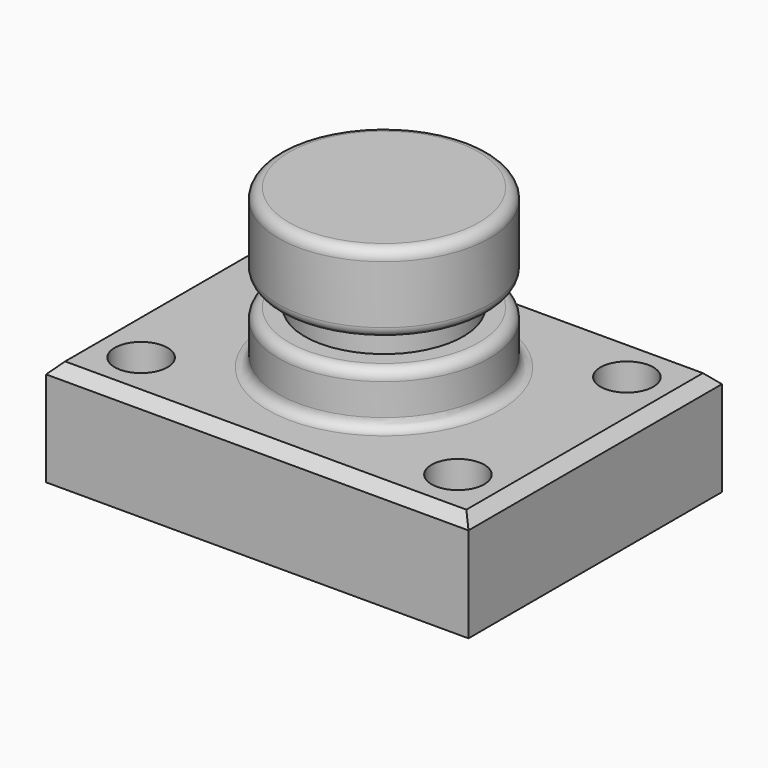
from build123d import *

# Parameters (mm, degrees)
F0_W     = 101.6
F0_H     = 76.2
F1_DEPTH = 25.4
F2_R     = 6.35
F3_DEPTH = 25.4
F4_W     = 25.4
F4_H     = 38.1
F6_W     = 25.4
F6_H     = 6.35
F8_SIZE  = 2.54
F9_R     = 2.54


with BuildPart() as f1:
    # F0 (on Top) → F1 (new body)
    with BuildSketch(Plane.XY):
        Rectangle(F0_W, F0_H)
    extrude(amount=F1_DEPTH)

    # F2 (on face) → F3 (cut)
    with BuildSketch(Plane.XY.offset(25.4)):
        with Locations((-38.1, 25.4)):
            Circle(F2_R)
        with Locations((38.1, 25.4)):
            Circle(F2_R)
        with Locations((38.1, -25.4)):
            Circle(F2_R)
        with Locations((-38.1, -25.4)):
            Circle(F2_R)
    extrude(amount=-F3_DEPTH, mode=Mode.SUBTRACT)

    # F4 (on Front) → F5 (revolve)
    with BuildSketch(Plane.XZ):
        with Locations((-12.7, 44.45)):
            Rectangle(F4_W, F4_H)
    revolve(axis=Axis((0, 0, 44.45), (0, 0, -1)))

    # F6 (on Right) → F7 (revolve, cut)
    with BuildSketch(Plane.YZ):
        with Locations((-31.75, 41.275)):
            Rectangle(F6_W, F6_H)
    revolve(axis=Axis((0, 0, 63.5), (0, 0, -1)), mode=Mode.SUBTRACT)

    # F8
    f8_edges = [f1.edges().sort_by_distance(p)[0] for p in [
        (0, 38.1, 25.4),
        (-50.8, 0, 25.4),
        (0, -38.1, 25.4),
        (50.8, 0, 25.4),
    ]]
    chamfer(f8_edges, length=F8_SIZE)

    # F9
    f9_edges = [f1.edges().sort_by_distance(p)[0] for p in [
        (25.4, 0, 25.4),
        (25.4, 0, 38.1),
        (25.4, 0, 44.45),
        (25.4, 0, 63.5),
    ]]
    fillet(f9_edges, radius=F9_R)


solid = f1.part
